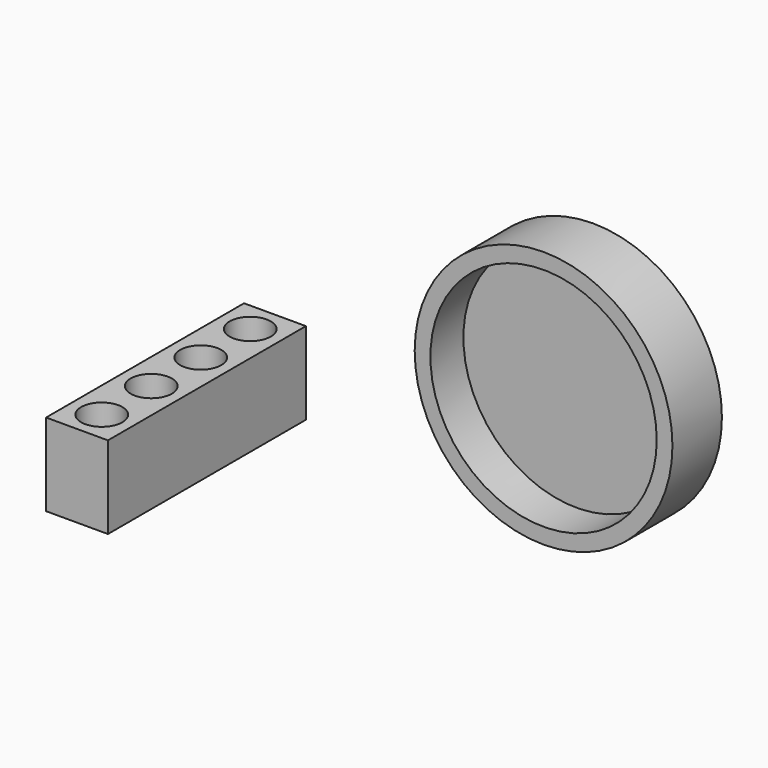
from build123d import *

# Parameters (mm, degrees)
F0_R     = 317.5
F1_DEPTH = 152.4
F2_W     = 152.4
F2_H     = 609.6
F2_R     = 50.8
F3_DEPTH = 203.2
F4_R     = 278.795744
F5_DEPTH = 101.6


with BuildPart() as f1:
    # F0 (on Front) → F1 (new body)
    with BuildSketch(Plane.XZ):
        Circle(F0_R)
    extrude(amount=F1_DEPTH)

    # F4 (on face) → F5 (cut)
    with BuildSketch(Plane.XZ.offset(152.4)):
        Circle(F4_R)
    extrude(amount=-F5_DEPTH, mode=Mode.SUBTRACT)


with BuildPart() as f3:
    # F2 (on Top) → F3 (new body)
    with BuildSketch(Plane.XY):
        with Locations((-621.068776, -508)):
            Rectangle(F2_W, F2_H)
        with Locations((-621.068776, -736.6)):
            Circle(F2_R, mode=Mode.SUBTRACT)
        with Locations((-621.068776, -584.2)):
            Circle(F2_R, mode=Mode.SUBTRACT)
        with Locations((-621.068776, -431.8)):
            Circle(F2_R, mode=Mode.SUBTRACT)
        with Locations((-621.068776, -279.4)):
            Circle(F2_R, mode=Mode.SUBTRACT)
    extrude(amount=-F3_DEPTH)


solid = Compound([f1.part, f3.part])
